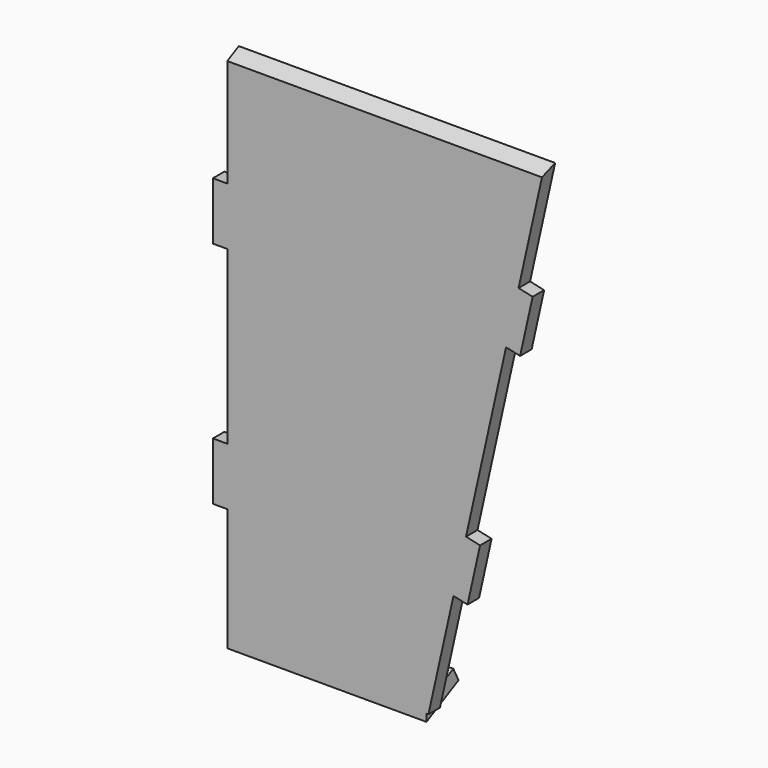
from build123d import *

# Parameters (mm, degrees)
F1_DEPTH = 3.175
F4_DEPTH = 76.2
F5_DEPTH = 43.942


with BuildPart() as f1:
    # F0 (on Front) → F1 (new body)
    with BuildSketch(Plane.XZ):
        Polygon((-34.925, -57.010706), (9.447175, -57.010706), (14.970036, -32.218409), (18.069073, -32.908767), (20.830503, -20.512618), (17.731466, -19.82226), (26.562884, 19.82226), (29.661922, 19.131903), (32.423352, 31.528051), (29.324315, 32.218409), (34.847175, 57.010706), (-34.925, 57.010706), (-34.925, 31.610706), (-38.1, 31.610706), (-38.1, 18.910706), (-34.925, 18.910706), (-34.925, -18.910706), (-38.1, -18.910706), (-38.1, -31.610706), (-34.925, -31.610706), align=None)
    extrude(amount=F1_DEPTH)

    # F3 (on face) → F4 (cut)
    with BuildSketch(Plane(origin=(-34.925, 0, 0), x_dir=(0, -1, 0), z_dir=(-1, 0, 0))):
        Polygon((3.175, 57.010706), (0, 57.010706), (3.175, 55.393441), align=None)
    extrude(amount=-F4_DEPTH, mode=Mode.SUBTRACT)

    # F2 (on face) → F5 (join)
    with BuildSketch(Plane(origin=(-34.925, 0, 0), x_dir=(0, -1, 0), z_dir=(-1, 0, 0))):
        Polygon((-5.658236, -54.128543), (0, -57.010706), (3.175, -58.627972), (3.175, -55.064803), (-4.217154, -51.299425), align=None)
    extrude(amount=-F5_DEPTH)


solid = f1.part
